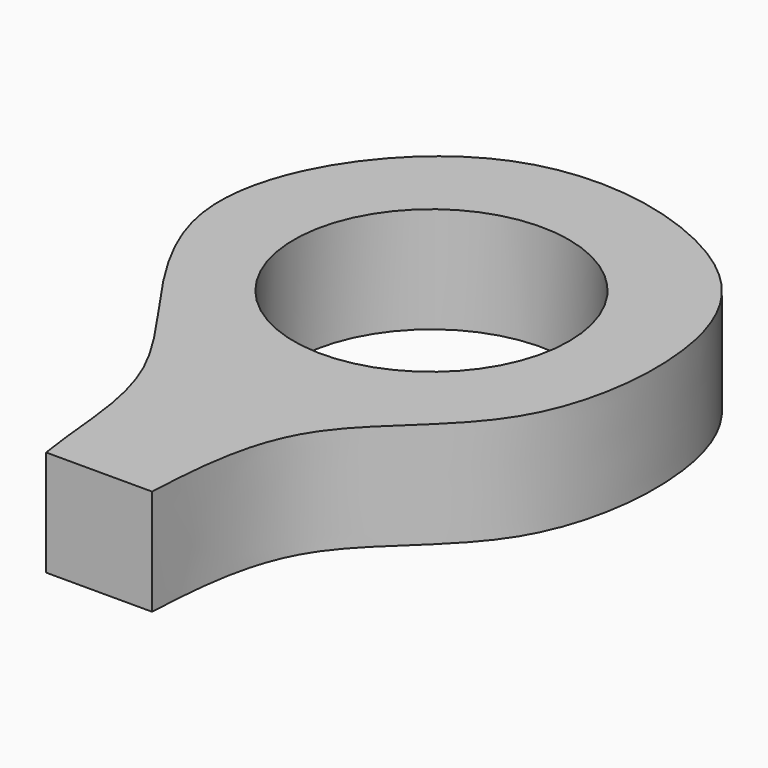
from build123d import *

# Parameters (mm, degrees)
F0_R     = 6.5
F1_DEPTH = 5


with BuildPart() as f1:
    # F0 (on Top) → F1 (new body)
    with BuildSketch(Plane.XY):
        with BuildLine():
            add(Edge.make_bspline(
                [(-3.0194530264, -18.9904011786), (-3.4575457194, -16.283461913), (-3.0860120713, -10.7444241611), (-13.9053787583, -0.5666951508), (-5.3395256772, 12.2495183507), (6.3416707984, 9.7178000188), (10.92780567, 3.8139926341), (10.1253970325, -6.5161588888), (2.6265665276, -10.8969094025), (2.1279557723, -16.0258347249), (1.9898766186, -18.9904011786)],
                knots=[0, 0, 0, 0, 0.1167699044, 0.2637662072, 0.4042744586, 0.5363935158, 0.6451158438, 0.7701048075, 0.885246606, 1, 1, 1, 1], degree=3))
            Line((-3.0194530264, -18.9904011786), (1.9898766186, -18.9904011786))
        make_face()
        Circle(F0_R, mode=Mode.SUBTRACT)
    extrude(amount=F1_DEPTH)


solid = f1.part
